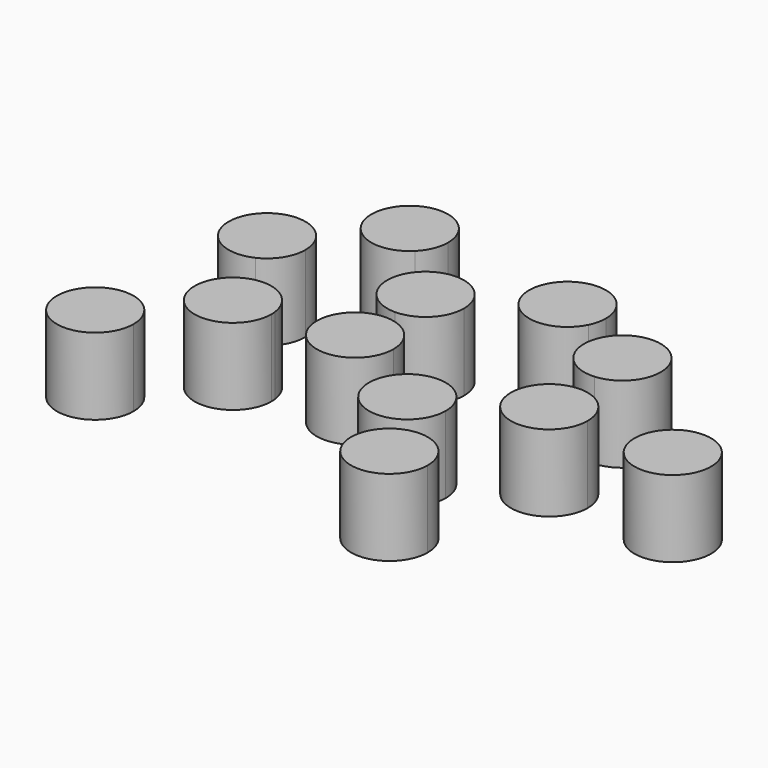
from build123d import *

# Parameters (mm, degrees)
F1_DEPTH = 25.4


with BuildPart() as f1:
    # F0 (on Top) → F1 (new body)
    with BuildSketch(Plane.XY):
        with BuildLine():
            Line((-52.4831996534, 0), (-43.5029435323, 8.9802561211))
            ThreePointArc((-43.5029435323, 8.9802561211), (-64.9889206945, 2.2129033509), (-47.1298883319, -11.5165992331))
            Line((-47.1298883319, -11.5165992331), (-52.4831996534, 0))
        make_face()
        with BuildLine():
            ThreePointArc((-39.7831996534, 0), (-40.7499295905, 4.860079591), (-43.5029435323, 8.9802561211))
            Line((-43.5029435323, 8.9802561211), (-52.4831996534, 0))
            Line((-52.4831996534, 0), (-47.1298883319, -11.5165992331))
            ThreePointArc((-47.1298883319, -11.5165992331), (-41.776261394, -6.8301883655), (-39.7831996534, 0))
        make_face()
    extrude(amount=F1_DEPTH)


with BuildPart() as f1b:
    # F0 (on Top) → F1, piece 2 (new body)
    with BuildSketch(Plane.XY):
        with BuildLine():
            Line((-26.2415998267, 26.2415998267), (-17.2613437056, 17.2613437056))
            ThreePointArc((-17.2613437056, 17.2613437056), (-14.5083297638, 21.3815202357), (-13.5415998267, 26.2415998267))
            ThreePointArc((-13.5415998267, 26.2415998267), (-31.1016794177, 37.9748698896), (-35.2218559478, 17.2613437056))
            Line((-35.2218559478, 17.2613437056), (-26.2415998267, 26.2415998267))
        make_face()
        with BuildLine():
            ThreePointArc((-35.2218559478, 17.2613437056), (-26.2415998267, 13.5415998267), (-17.2613437056, 17.2613437056))
            Line((-17.2613437056, 17.2613437056), (-26.2415998267, 26.2415998267))
            Line((-26.2415998267, 26.2415998267), (-35.2218559478, 17.2613437056))
        make_face()
    extrude(amount=F1_DEPTH)


with BuildPart() as f1c:
    # F0 (on Top) → F1, piece 3 (new body)
    with BuildSketch(Plane.XY):
        with BuildLine():
            ThreePointArc((-8.9802561211, 8.9802561211), (-11.7332700629, -4.860079591), (0, -12.7))
            Line((0, -12.7), (0, 0))
            Line((0, 0), (-8.9802561211, 8.9802561211))
        make_face()
        with BuildLine():
            Line((0, 0), (10.9985226281, 6.35))
            ThreePointArc((10.9985226281, 6.35), (1.6576826412, 12.5913497394), (-8.9802561211, 8.9802561211))
            Line((-8.9802561211, 8.9802561211), (0, 0))
        make_face()
        with BuildLine():
            ThreePointArc((0, -12.7), (8.9802561211, -8.9802561211), (12.7, 0))
            ThreePointArc((12.7, 0), (12.2672579939, 3.2870018728), (10.9985226281, 6.35))
            Line((10.9985226281, 6.35), (0, 0))
            Line((0, 0), (0, -12.7))
        make_face()
    extrude(amount=F1_DEPTH)


with BuildPart() as f1d:
    # F0 (on Top) → F1, piece 4 (new body)
    with BuildSketch(Plane.XY):
        with BuildLine():
            Line((0, -29.1750417436), (0, -16.4750417436))
            ThreePointArc((0, -16.4750417436), (-9.5066412192, -20.7540101721), (-12.6072009207, -30.7075184792))
            Line((-12.6072009207, -30.7075184792), (0, -29.1750417436))
        make_face()
        with BuildLine():
            Line((0, -29.1750417436), (-12.6072009207, -30.7075184792))
            ThreePointArc((-12.6072009207, -30.7075184792), (-2.5395066574, -41.6185503299), (10.9985226281, -35.5250417436))
            Line((10.9985226281, -35.5250417436), (0, -29.1750417436))
        make_face()
        with BuildLine():
            ThreePointArc((12.7, -29.1750417436), (8.9802561211, -20.1947856225), (0, -16.4750417436))
            Line((0, -16.4750417436), (0, -29.1750417436))
            Line((0, -29.1750417436), (10.9985226281, -35.5250417436))
            ThreePointArc((10.9985226281, -35.5250417436), (12.2672579939, -32.4620436164), (12.7, -29.1750417436))
        make_face()
    extrude(amount=F1_DEPTH)


with BuildPart() as f1e:
    # F0 (on Top) → F1, piece 5 (new body)
    with BuildSketch(Plane.XY):
        with BuildLine():
            ThreePointArc((-24.1400541182, -33.6531591488), (-24.163275117, -32.8855172052), (-24.2328531975, -32.1206824132))
            Line((-24.2328531975, -32.1206824132), (-36.8400541182, -33.6531591488))
            Line((-36.8400541182, -33.6531591488), (-45.43055476, -43.0069444105))
            ThreePointArc((-45.43055476, -43.0069444105), (-31.7316961703, -45.2804838228), (-24.1400541182, -33.6531591488))
        make_face()
        with BuildLine():
            Line((-36.8400541182, -33.6531591488), (-24.2328531975, -32.1206824132))
            ThreePointArc((-24.2328531975, -32.1206824132), (-30.6695270669, -22.5529521278), (-42.1933654397, -22.1365599157))
            Line((-42.1933654397, -22.1365599157), (-36.8400541182, -33.6531591488))
        make_face()
        with BuildLine():
            Line((-36.8400541182, -33.6531591488), (-42.1933654397, -22.1365599157))
            ThreePointArc((-42.1933654397, -22.1365599157), (-49.3899828135, -31.7065493413), (-45.43055476, -43.0069444105))
            Line((-45.43055476, -43.0069444105), (-36.8400541182, -33.6531591488))
        make_face()
    extrude(amount=F1_DEPTH)


with BuildPart() as f1f:
    # F0 (on Top) → F1, piece 6 (new body)
    with BuildSketch(Plane.XY):
        with BuildLine():
            ThreePointArc((-48.511142689, -60.1896718144), (-49.5838180149, -55.0813138665), (-52.6206420472, -50.8358865527))
            ThreePointArc((-52.6206420472, -50.8358865527), (-72.838467363, -65.2980297624), (-48.511142689, -60.1896718144))
        make_face()
    extrude(amount=F1_DEPTH)


with BuildPart() as f1g:
    # F0 (on Top) → F1, piece 7 (new body)
    with BuildSketch(Plane.XY):
        with BuildLine():
            ThreePointArc((43.1377874329, -41.3806549302), (32.1392648048, -35.0306549302), (21.1407421768, -41.3806549302))
            Line((21.1407421768, -41.3806549302), (32.1392648048, -47.7306549302))
            Line((32.1392648048, -47.7306549302), (43.1377874329, -41.3806549302))
        make_face()
        with BuildLine():
            Line((32.1392648048, -47.7306549302), (21.1407421768, -41.3806549302))
            ThreePointArc((21.1407421768, -41.3806549302), (23.1590086838, -56.7109110513), (38.4892648048, -58.7291775583))
            Line((38.4892648048, -58.7291775583), (32.1392648048, -47.7306549302))
        make_face()
        with BuildLine():
            Line((43.1377874329, -41.3806549302), (32.1392648048, -47.7306549302))
            Line((32.1392648048, -47.7306549302), (38.4892648048, -58.7291775583))
            ThreePointArc((38.4892648048, -58.7291775583), (43.1377874329, -54.0806549302), (44.8392648048, -47.7306549302))
            ThreePointArc((44.8392648048, -47.7306549302), (44.4065227987, -44.4436530574), (43.1377874329, -41.3806549302))
        make_face()
    extrude(amount=F1_DEPTH)


with BuildPart() as f1h:
    # F0 (on Top) → F1, piece 8 (new body)
    with BuildSketch(Plane.XY):
        with BuildLine():
            ThreePointArc((60.2444479138, -74.4132147749), (53.8944479138, -63.4146921468), (41.1944479138, -63.4146921468))
            ThreePointArc((41.1944479138, -63.4146921468), (41.1944479138, -85.411737403), (60.2444479138, -74.4132147749))
        make_face()
    extrude(amount=F1_DEPTH)


with BuildPart() as f1i:
    # F0 (on Top) → F1, piece 9 (new body)
    with BuildSketch(Plane.XY):
        with BuildLine():
            ThreePointArc((53.2800069816, -35.5250417436), (67.5655314825, -41.4422997375), (76.9785296097, -29.1750417436))
            Line((76.9785296097, -29.1750417436), (64.2785296097, -29.1750417436))
            Line((64.2785296097, -29.1750417436), (53.2800069816, -35.5250417436))
        make_face()
        with BuildLine():
            Line((64.2785296097, -29.1750417436), (63.4027472219, -16.5052743736))
            ThreePointArc((63.4027472219, -16.5052743736), (53.0674784723, -23.2082727355), (53.2800069816, -35.5250417436))
            Line((53.2800069816, -35.5250417436), (64.2785296097, -29.1750417436))
        make_face()
        with BuildLine():
            ThreePointArc((76.9785296097, -29.1750417436), (72.9436194441, -19.8903113672), (63.4027472219, -16.5052743736))
            Line((63.4027472219, -16.5052743736), (64.2785296097, -29.1750417436))
            Line((64.2785296097, -29.1750417436), (76.9785296097, -29.1750417436))
        make_face()
    extrude(amount=F1_DEPTH)


with BuildPart() as f1j:
    # F0 (on Top) → F1, piece 10 (new body)
    with BuildSketch(Plane.XY):
        with BuildLine():
            ThreePointArc((117.8683108519, -29.1750417436), (105.1683108519, -16.4750417436), (92.4683108519, -29.1750417436))
            ThreePointArc((92.4683108519, -29.1750417436), (105.1683108519, -41.8750417436), (117.8683108519, -29.1750417436))
        make_face()
    extrude(amount=F1_DEPTH)


with BuildPart() as f1k:
    # F0 (on Top) → F1, piece 11 (new body)
    with BuildSketch(Plane.XY):
        with BuildLine():
            ThreePointArc((74.6875504436, 3.9680923148), (64.849373178, 16.3414496053), (50.5773188472, 9.5445262038))
            Line((50.5773188472, 9.5445262038), (61.9875504436, 3.9680923148))
            Line((61.9875504436, 3.9680923148), (62.8633328313, -8.7016750551))
            ThreePointArc((62.8633328313, -8.7016750551), (71.27228082, -4.6969975195), (74.6875504436, 3.9680923148))
        make_face()
        with BuildLine():
            Line((61.9875504436, 3.9680923148), (50.5773188472, 9.5445262038))
            ThreePointArc((50.5773188472, 9.5445262038), (51.453101235, -3.1252411662), (62.8633328313, -8.7016750551))
            Line((62.8633328313, -8.7016750551), (61.9875504436, 3.9680923148))
        make_face()
    extrude(amount=F1_DEPTH)


with BuildPart() as f1l:
    # F0 (on Top) → F1, piece 12 (new body)
    with BuildSketch(Plane.XY):
        with BuildLine():
            Line((32.1392648048, 18.5556131866), (21.1407421768, 12.2056131866))
            ThreePointArc((21.1407421768, 12.2056131866), (32.577416834, 5.8631735945), (43.5494964012, 12.9791792977))
            Line((43.5494964012, 12.9791792977), (32.1392648048, 18.5556131866))
        make_face()
        with BuildLine():
            ThreePointArc((44.8392648048, 18.5556131866), (28.852262932, 30.8228711805), (21.1407421768, 12.2056131866))
            Line((21.1407421768, 12.2056131866), (32.1392648048, 18.5556131866))
            Line((32.1392648048, 18.5556131866), (43.5494964012, 12.9791792977))
            ThreePointArc((43.5494964012, 12.9791792977), (44.5126220953, 15.6937904522), (44.8392648048, 18.5556131866))
        make_face()
    extrude(amount=F1_DEPTH)


solid = Compound([f1.part, f1b.part, f1c.part, f1d.part, f1e.part, f1f.part, f1g.part, f1h.part, f1i.part, f1j.part, f1k.part, f1l.part])
